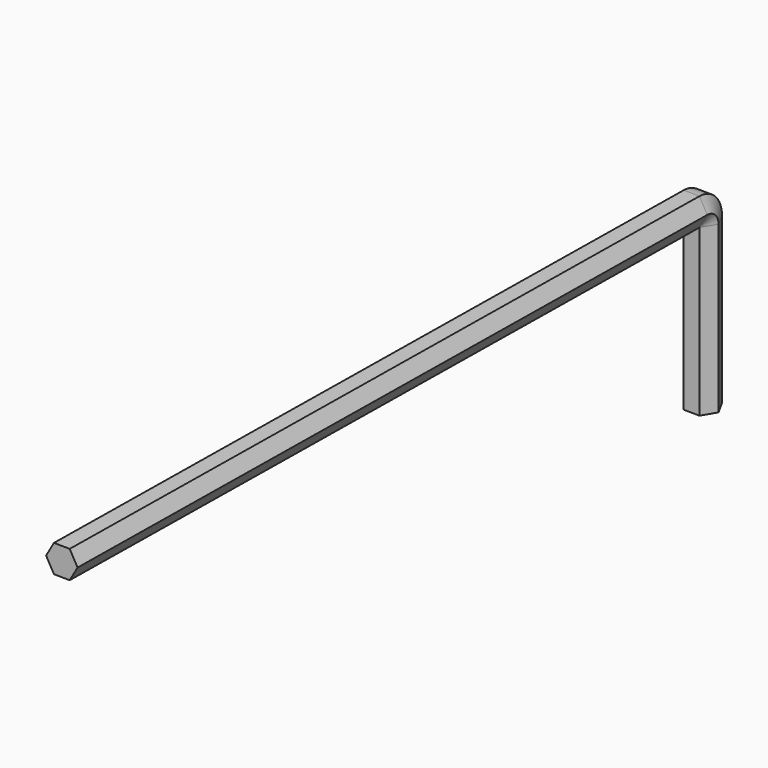
from build123d import *

# Parameters (mm, degrees)
F1_DEPTH = 15
F3_ANGLE = 90
F5_DEPTH = 70


with BuildPart() as f1:
    # F0 (on Top) → F1 (new body)
    with BuildSketch(Plane.XY):
        Polygon((0.7031400781, -1.2605266217), (1.4432181155, -0.0213261408), (0.7400780375, 1.2392004809), (-0.7031400781, 1.2605266217), (-1.4432181155, 0.0213261408), (-0.7400780375, -1.2392004809), align=None)
    extrude(amount=F1_DEPTH)

    # F2 (on face) → F3 (revolve)
    with BuildSketch(Plane.XY.offset(15)):
        Polygon((-1.4432181155, 0.0213261408), (-0.7400780375, -1.2392004809), (0.7031400781, -1.2605266217), (1.4432181155, -0.0213261408), (0.7400780375, 1.2392004809), (-0.7031400781, 1.2605266217), align=None)
    revolve(axis=Axis((-0.0184689797, -1.2498635513, 15), (0.999890841, -0.0147751838, 0)), revolution_arc=F3_ANGLE)

    # F4 (on face) → F5 (join)
    with BuildSketch(Plane(origin=(-0.0184689797, -1.2498635513, 0), x_dir=(0.999890841, -0.0147751838, 0), z_dir=(-0.0147751838, -0.999890841, 0))):
        Polygon((-0.7216878365, 15), (0.7216878365, 15), (1.443375673, 16.25), (0.7216878365, 17.5), (-0.7216878365, 17.5), (-1.443375673, 16.25), align=None)
    extrude(amount=F5_DEPTH)


solid = f1.part
